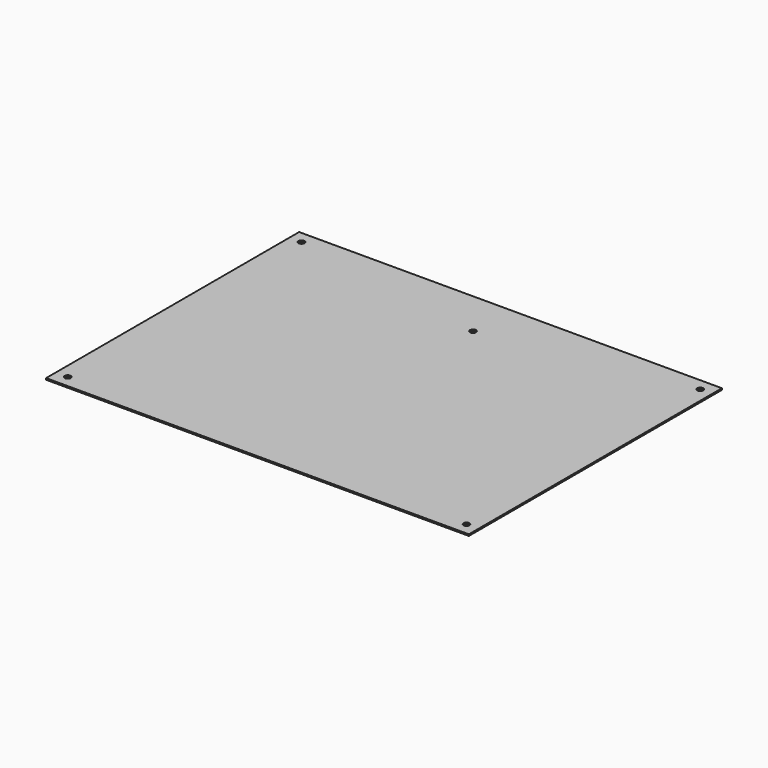
from build123d import *

# Parameters (mm, degrees)
F0_W     = 445.77
F0_H     = 333.502
F0_R     = 3.175
F1_DEPTH = 1.6002


with BuildPart() as f1:
    # F0 (on Top) → F1 (new body)
    with BuildSketch(Plane.XY):
        with Locations((222.885, 166.751)):
            Rectangle(F0_W, F0_H)
        with Locations((12.7, 12.7)):
            Circle(F0_R, mode=Mode.SUBTRACT)
        with Locations((433.07, 12.7)):
            Circle(F0_R, mode=Mode.SUBTRACT)
        with Locations((12.7, 320.802)):
            Circle(F0_R, mode=Mode.SUBTRACT)
        with Locations((222.25, 284.861)):
            Circle(F0_R, mode=Mode.SUBTRACT)
        with Locations((433.07, 320.802)):
            Circle(F0_R, mode=Mode.SUBTRACT)
    extrude(amount=F1_DEPTH)


solid = f1.part
